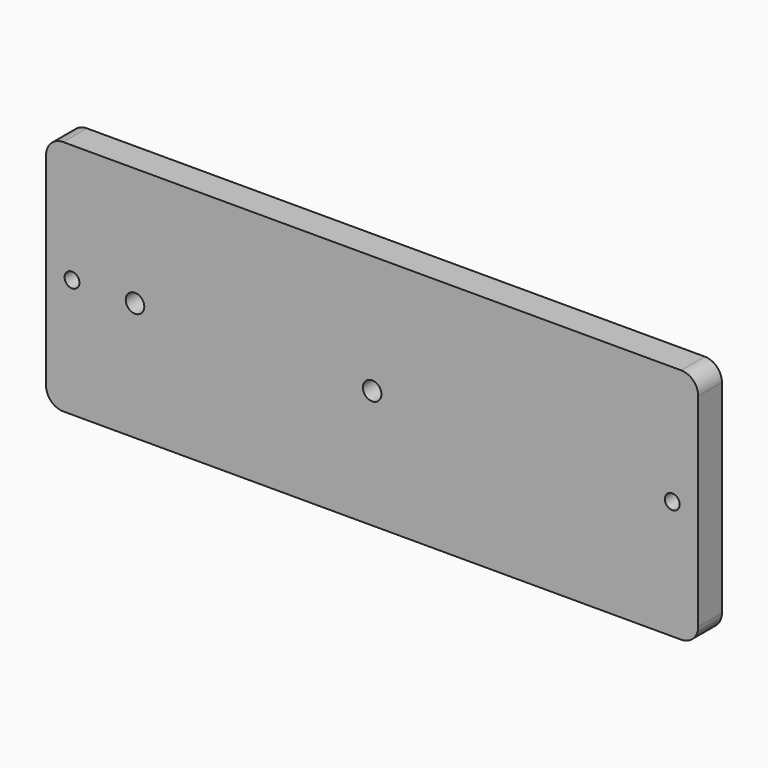
from build123d import *

# Parameters (mm, degrees)
F0_W           = 279.4
F0_H           = 101.6
F1_DEPTH       = 12.7
F2_D           = 7.9375
F3_D           = 6.35
F3_CSINK_D     = 12.7
F3_CSINK_ANGLE = 82
F4_R           = 7.3025


with BuildPart() as f1:
    # F0 (on Front) → F1 (new body)
    with BuildSketch(Plane.XZ):
        with Locations((3.0817836523, -41.158976573)):
            Rectangle(F0_W, F0_H)
    extrude(amount=F1_DEPTH)

    # F2 (through all)
    with Locations(Plane(origin=(0, 0, 0), x_dir=(1, 0, 0), z_dir=(0, 1, 0))):
        with Locations((-98.5182163477, 41.158976573), (3.0817836523, 41.158976573)):
            Hole(F2_D / 2)

    # F3 (through all)
    with Locations(Plane(origin=(0, 0, 0), x_dir=(1, 0, 0), z_dir=(0, 1, 0))):
        with Locations((-125.5057163477, 41.158976573), (131.6692836523, 41.158976573)):
            CounterSinkHole(F3_D / 2, F3_CSINK_D / 2, counter_sink_angle=F3_CSINK_ANGLE)

    # F4
    f4_edges = [f1.edges().sort_by_distance(p)[0] for p in [
        (142.781784, -6.35, 9.641023),
        (-136.618216, -6.35, 9.641023),
        (-136.618216, -6.35, -91.958977),
        (142.781784, -6.35, -91.958977),
    ]]
    fillet(f4_edges, radius=F4_R)


solid = f1.part
